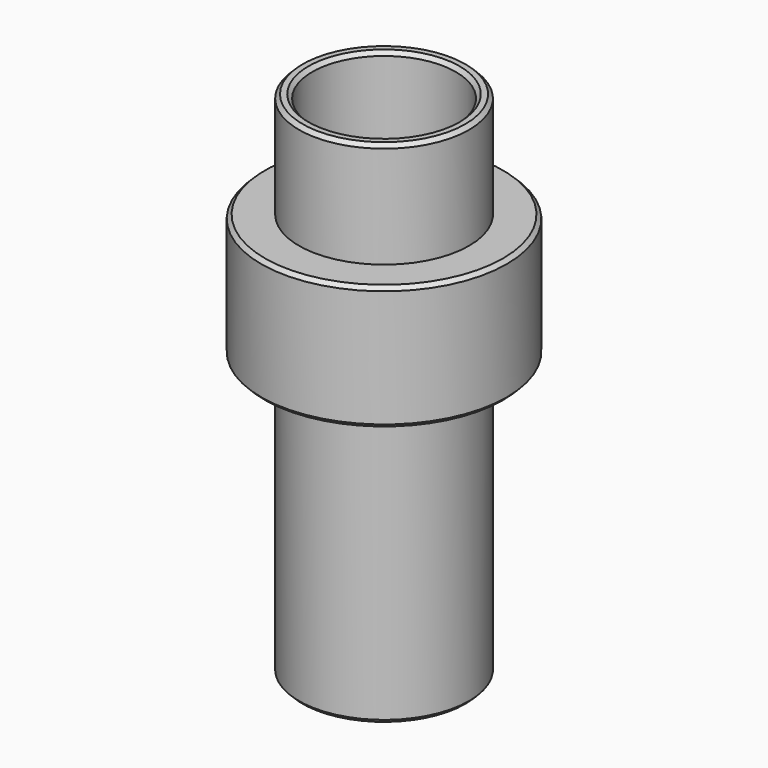
from build123d import *

# Parameters (mm, degrees)
F2_SIZE = 0.2


with BuildPart() as f1:
    # F0 (on Front) → F1 (revolve)
    with BuildSketch(Plane.XZ):
        Polygon((3.8, 27), (3.8, 0), (4.5, 0), (4.5, 14.8), (6.5, 14.8), (6.5, 21.4), (4.5, 21.4), (4.5, 27), align=None)
    revolve(axis=Axis((0, 0, 50), (0, 0, -1)))

    # F2
    f2_edges = [f1.edges().sort_by_distance(p)[0] for p in [
        (-4.5, 0, 0),
        (-6.5, 0, 14.8),
        (-6.5, 0, 21.4),
        (-4.5, 0, 27),
        (-3.8, 0, 27),
        (-3.8, 0, 0),
    ]]
    chamfer(f2_edges, length=F2_SIZE)


solid = f1.part
